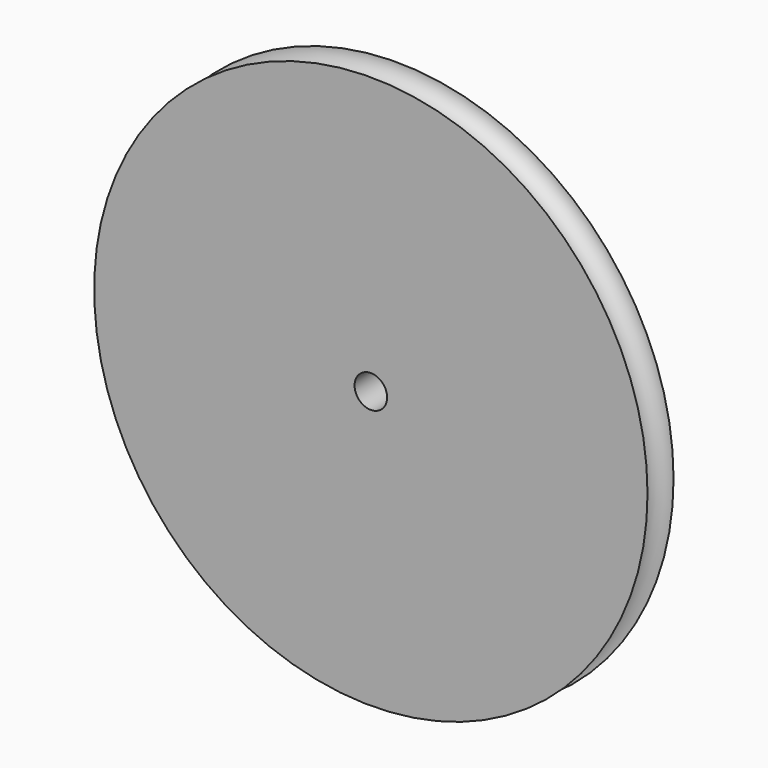
from build123d import *


with BuildPart() as f1:
    # F0 (on Top) → F1 (revolve)
    with BuildSketch(Plane.XY):
        with BuildLine():
            Line((53.975, 5.387278), (3.175, 5.387278))
            Line((3.175, 5.387278), (3.175, -0.962722))
            Line((3.175, -0.962722), (53.975, -0.962722))
            ThreePointArc((53.975, -0.962722), (50.8, 2.212278), (53.975, 5.387278))
        make_face()
    revolve(axis=Axis((0, 2.94924, 0), (0, -1, 0)))


solid = f1.part
